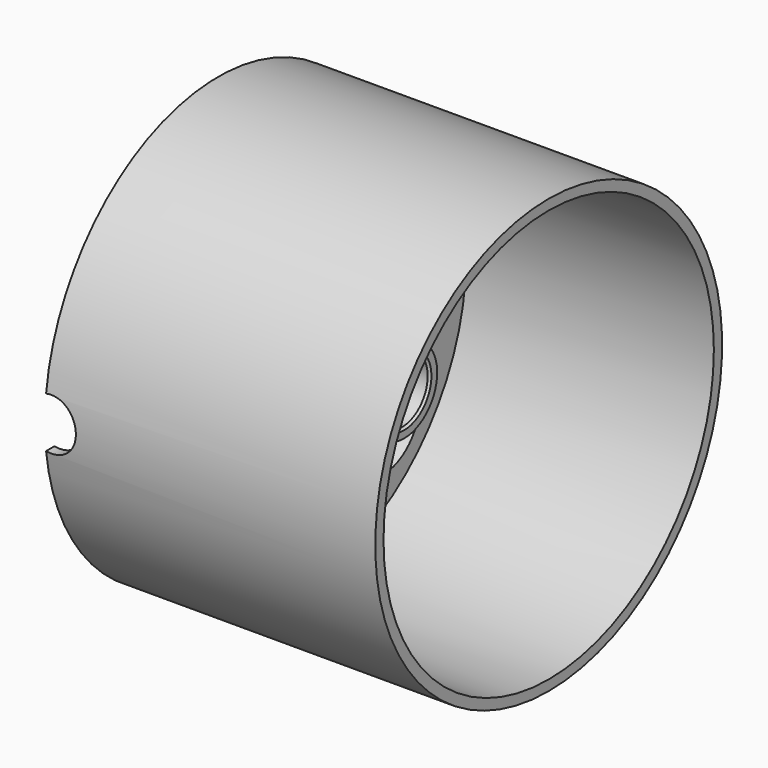
from build123d import *

# Parameters (mm, degrees)
CYLINDER039_R          = 2.25
CYLINDER039_DEPTH      = 30
ARRAY002_COUNT         = 8
CYLINDER038_R          = 1.55
CYLINDER038_DEPTH      = 30
CYLINDER045_R          = 1.25
CYLINDER045_DEPTH      = 32
CYLINDER045_ROLL_ANGLE = 90
CYLINDER043_R          = 3.5
CYLINDER043_DEPTH      = 5.5
CYLINDER042_R          = 10
CYLINDER042_DEPTH      = 16
CYLINDER037_R          = 10
CYLINDER037_DEPTH      = 16
CYLINDER036_R          = 10.5
CYLINDER036_DEPTH      = 16
CYLINDER044_R          = 2
CYLINDER044_DEPTH      = 5.5
CHAMFER062_1_SIZE      = 0.3
CHAMFER062_2_SIZE      = 0.2
CHAMFER062_3_SIZE      = 0.1
CLONE044_PITCH_ANGLE   = 90


with BuildPart() as array002:
    # Cylinder039 → Cylinder039 (new body)
    with BuildSketch(Plane(origin=(7, 0, -10), x_dir=(1, 0, 0), z_dir=(0, 0, 1))):
        Circle(CYLINDER039_R)
    extrude(amount=CYLINDER039_DEPTH)

    # Array002: Array002 ×8 about axis
    array002_axis = Axis((0, 0, 0), (0, 0, 1))


with BuildPart() as array002_1:
    add(array002.part)
    for i in range(1, ARRAY002_COUNT):
        add(array002.part.rotate(array002_axis, i * 360 / ARRAY002_COUNT))


with BuildPart() as fusion033:
    # Cylinder038 → Cylinder038 (new body)
    with BuildSketch(Plane.XY.offset(-10)):
        Circle(CYLINDER038_R)
    extrude(amount=CYLINDER038_DEPTH)

    # Fusion033: union Array002
    add(array002_1.part)


with BuildPart() as cylinder045:
    # Cylinder045 → Cylinder045 (new body)
    with BuildSketch(Plane.XY):
        Circle(CYLINDER045_R)
    extrude(amount=CYLINDER045_DEPTH)


with BuildPart() as cylinder045_1:
    # Cylinder045 roll: moved
    add(cylinder045.part.rotate(Axis((0, 0, 0), (1, 0, 0)), CYLINDER045_ROLL_ANGLE))


with BuildPart() as cylinder045_2:
    # Cylinder045 placement: moved
    add(cylinder045_1.part.moved(Location((0, 15, 0.25))))


with BuildPart() as cylinder043:
    # Cylinder043 → Cylinder043 (new body)
    with BuildSketch(Plane.XY.offset(-2)):
        Circle(CYLINDER043_R)
    extrude(amount=CYLINDER043_DEPTH)


with BuildPart() as cylinder042:
    # Cylinder042 → Cylinder042 (new body)
    with BuildSketch(Plane.XY.offset(-13)):
        Circle(CYLINDER042_R)
    extrude(amount=CYLINDER042_DEPTH)


with BuildPart() as fusion034:
    # Cylinder037 → Cylinder037 (new body)
    with BuildSketch(Plane.XY.offset(4)):
        Circle(CYLINDER037_R)
    extrude(amount=CYLINDER037_DEPTH)

    # Fusion034: union Cylinder042
    add(cylinder042.part)


with BuildPart() as cut028:
    # Cylinder036 → Cylinder036 (new body)
    with BuildSketch(Plane.XY):
        Circle(CYLINDER036_R)
    extrude(amount=CYLINDER036_DEPTH)

    # Cut028: cut Fusion034
    add(fusion034.part, mode=Mode.SUBTRACT)


with BuildPart() as right_tire:
    # Cylinder044 → Cylinder044 (new body)
    with BuildSketch(Plane.XY.offset(3.5)):
        Circle(CYLINDER044_R)
    extrude(amount=CYLINDER044_DEPTH)

    # Fusion035: union Cylinder043, Cut028
    add(cylinder043.part)
    add(cut028.part)

    # Cut002: cut Cylinder045
    add(cylinder045_2.part, mode=Mode.SUBTRACT)

    # Cut029: cut Fusion033
    add(fusion033.part, mode=Mode.SUBTRACT)

    # Chamfer062 1
    chamfer062_1_edges = [right_tire.edges().sort_by_distance(p)[0] for p in [
        (-1.55, 0, -2),
    ]]
    chamfer(chamfer062_1_edges, length=CHAMFER062_1_SIZE)

    # Chamfer062 2
    chamfer062_2_edges = [right_tire.edges().sort_by_distance(p)[0] for p in [
        (-3.5, 0, -2),
    ]]
    chamfer(chamfer062_2_edges, length=CHAMFER062_2_SIZE)

    # Chamfer062 3
    chamfer062_3_edges = [right_tire.edges().sort_by_distance(p)[0] for p in [
        (-1.55, 0, 9),
    ]]
    chamfer(chamfer062_3_edges, length=CHAMFER062_3_SIZE)


with BuildPart() as right_tire_1:
    # Clone044 pitch: moved
    add(right_tire.part.rotate(Axis((0, 0, 0), (0, 1, 0)), CLONE044_PITCH_ANGLE))


with BuildPart() as right_tire_2:
    # Clone044 placement: moved
    add(right_tire_1.part.moved(Location((43, 0, 5))))


solid = right_tire_2.part
